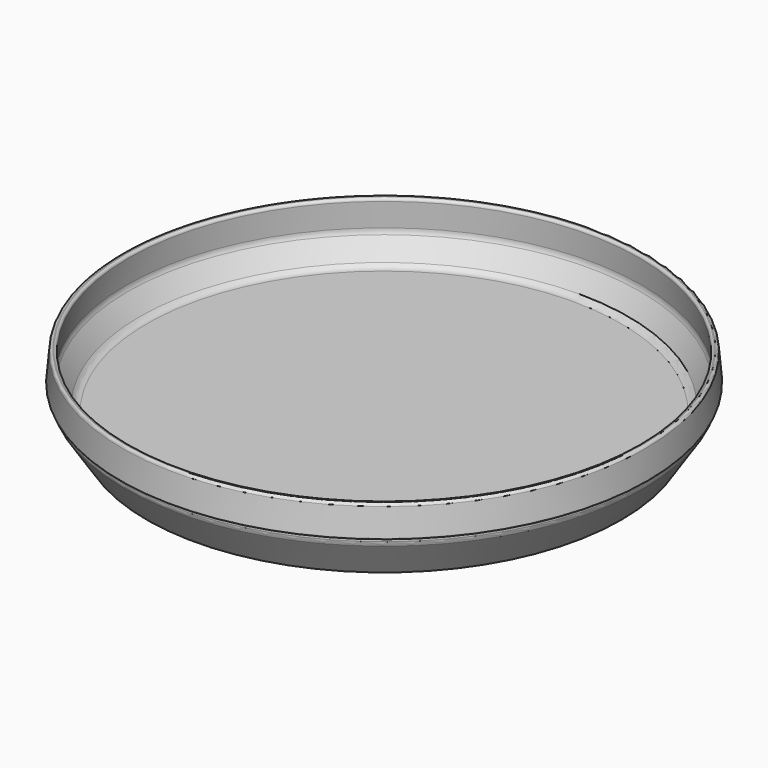
from build123d import *


with BuildPart() as f1:
    # F0 (on Front) → F1 (revolve)
    with BuildSketch(Plane.XZ):
        with BuildLine():
            Line((0, 9), (0, 6))
            Line((0, 6), (108.315799, 6))
            ThreePointArc((108.315799, 6), (110.511793, 5.376164), (112.051848, 3.690995))
            Line((112.051848, 3.690995), (113.897345, 0))
            Line((113.897345, 0), (116.897345, 0))
            Line((116.897345, 0), (128.083408, 17.225027))
            ThreePointArc((128.083408, 17.225027), (128.585275, 18.31366), (128.757286, 19.5))
            Line((128.757286, 19.5), (128.757286, 20.5))
            ThreePointArc((128.757286, 20.5), (128.903733, 20.853553), (129.257286, 21))
            Line((129.257286, 21), (129.501903, 21))
            ThreePointArc((129.501903, 21), (129.870541, 21.162205), (130, 21.543578))
            Line((130, 21.543578), (128.838617, 34.818249))
            ThreePointArc((128.838617, 34.818249), (128.379188, 35.700805), (127.430261, 36))
            Line((127.430261, 36), (127.031783, 35.965138))
            ThreePointArc((127.031783, 35.965138), (126.149228, 35.505708), (125.850033, 34.556782))
            Line((125.850033, 34.556782), (126.90145, 22.539026))
            ThreePointArc((126.90145, 22.539026), (126.793269, 21.16446), (126.243467, 19.900001))
            Line((126.243467, 19.900001), (120.400133, 10.902056))
            ThreePointArc((120.400133, 10.902056), (118.890088, 9.506184), (116.896982, 9))
            Line((116.896982, 9), (0, 9))
        make_face()
    revolve(axis=Axis((0, 0, 17.409125), (0, 0, 1)))


solid = f1.part
